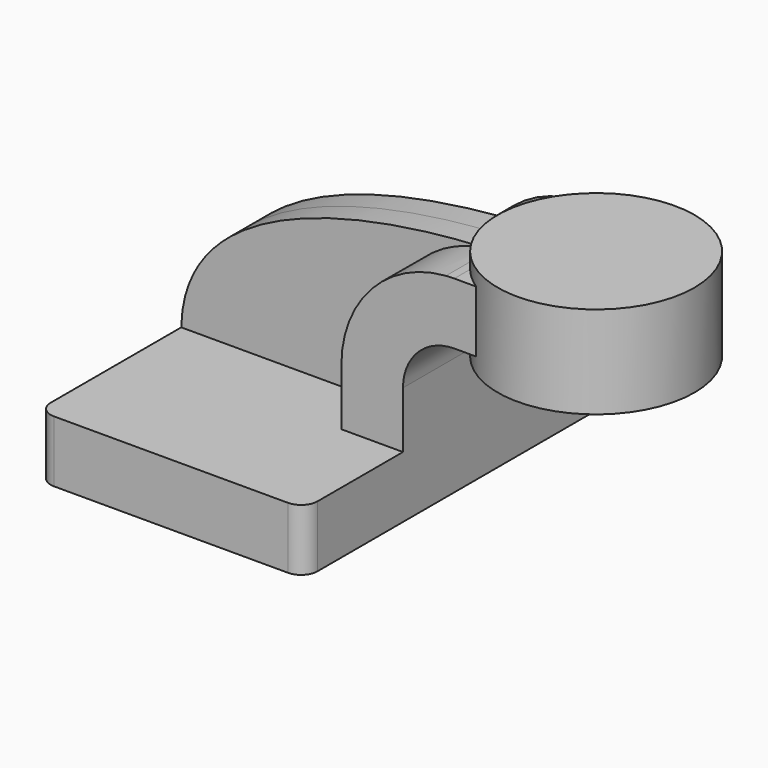
from build123d import *

# Parameters (mm, degrees)
F1_DEPTH  = 63.5
F2_DEPTH  = 25.4
F3_DEPTH  = 7.9375
F2_FACE_W = 50.8
F2_FACE_H = 19.05
F4_DEPTH  = 25.4
F6_R      = 5.08


with BuildPart() as f1:
    # F0 (on Front) → F1 (new body, symmetric)
    with BuildSketch(Plane.XZ):
        Polygon((22.225, 9.525), (-41.275, 9.525), (-41.275, -9.525), (41.275, -9.525), (41.275, 9.525), align=None)
    extrude(amount=F1_DEPTH, both=True)

    # F0 (on Front) → F2 (join, symmetric)
    with BuildSketch(Plane.XZ):
        with BuildLine():
            Line((22.225, 27.0002), (22.225, 9.525))
            Line((22.225, 9.525), (41.275, 9.525))
            Line((41.275, 9.525), (41.275, 27.0002))
            ThreePointArc((41.275, 27.0002), (45.92468, 38.22552), (57.15, 42.8752))
            Line((57.15, 42.8752), (60.325, 42.8752))
            Line((60.325, 42.8752), (60.325, 61.9252))
            Line((60.325, 61.9252), (57.15, 61.9252))
            add(Edge.make_bspline(
                [(54.567041, 61.829555), (55.435808, 61.866108), (56.29704, 61.897928), (57.15, 61.9252)],
                knots=[109.116845, 109.116845, 109.116845, 109.116845, 111.504536, 111.504536, 111.504536, 111.504536], degree=3))
            ThreePointArc((54.567041, 61.829555), (31.557369, 50.765151), (22.225, 27.0002))
        make_face()
    extrude(amount=F2_DEPTH, both=True)

    # F0 (on Front) → F3 (join, symmetric)
    with BuildSketch(Plane.XZ):
        with BuildLine():
            add(Edge.make_bspline(
                [(-41.275, 9.525), (-40.572758, 48.603796), (14.864627, 60.159082), (54.567041, 61.829555)],
                knots=[0, 0, 0, 0, 109.116845, 109.116845, 109.116845, 109.116845], degree=3))
            Line((-41.275, 9.525), (22.225, 9.525))
            Line((22.225, 9.525), (22.225, 27.0002))
            ThreePointArc((22.225, 27.0002), (31.557369, 50.765151), (54.567041, 61.829555))
        make_face()
    extrude(amount=F3_DEPTH, both=True)

    # F2_face (on face) → F4 (join)
    with BuildSketch(Plane(origin=(60.325, 0, 52.4002), x_dir=(0, 1, 0), z_dir=(1, 0, 0))):
        Rectangle(F2_FACE_W, F2_FACE_H)
    extrude(amount=F4_DEPTH)

    # F0 (on Front) → F5 (revolve)
    with BuildSketch(Plane.XZ):
        Polygon((80.682018, 66.675), (80.682018, 61.9252), (80.682018, 42.8752), (80.682018, 38.1), (111.125, 38.1), (111.125, 66.675), align=None)
    revolve(axis=Axis((80.682018, 0, 52.3875), (0, 0, 1)))

    # F6
    f6_edges = [f1.edges().sort_by_distance(p)[0] for p in [
        (-41.275, 63.5, 0),
        (-41.275, -63.5, 0),
        (41.275, 63.5, 0),
        (41.275, -63.5, 0),
    ]]
    fillet(f6_edges, radius=F6_R)


solid = f1.part
